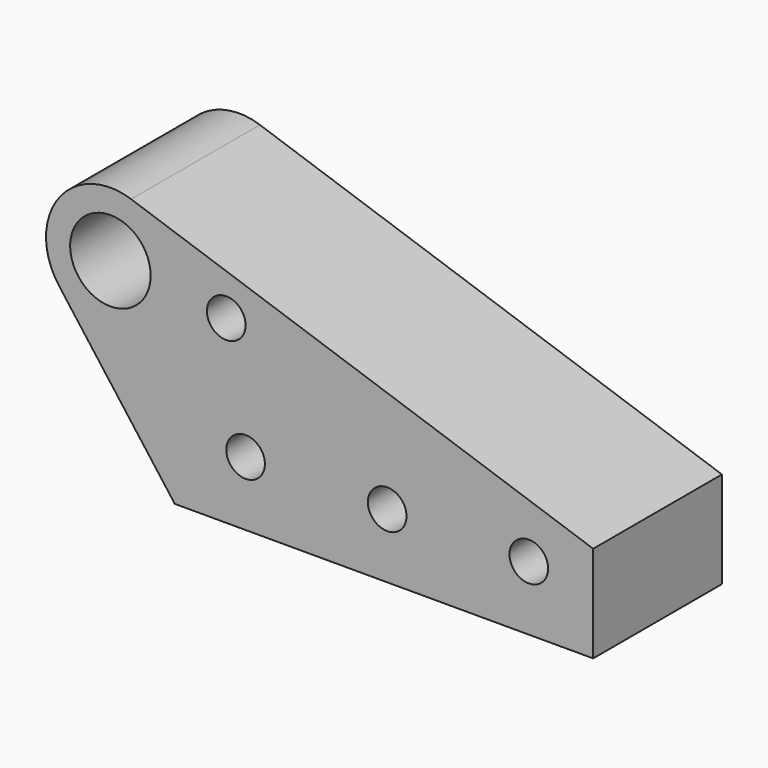
from build123d import *

# Parameters (mm, degrees)
F0_R     = 3
F0_R_2   = 6.25
F1_DEPTH = 25


with BuildPart() as f1:
    # F0 (on Front) → F1 (new body)
    with BuildSketch(Plane.XZ):
        with BuildLine():
            Line((-25.424625, 0), (39.575375, 0))
            Line((39.575375, 0), (39.575375, 15))
            Line((39.575375, 15), (-32.198247, 39.465225))
            ThreePointArc((-32.198247, 39.465225), (-43.517224, 35.874508), (-43.424625, 24))
            Line((-43.424625, 24), (-25.424625, 0))
        make_face()
        with Locations((-14.424625, 10)):
            Circle(F0_R, mode=Mode.SUBTRACT)
        with Locations((7.575375, 10)):
            Circle(F0_R, mode=Mode.SUBTRACT)
        with Locations((29.575375, 10)):
            Circle(F0_R, mode=Mode.SUBTRACT)
        with Locations((-17.424625, 28)):
            Circle(F0_R, mode=Mode.SUBTRACT)
        with Locations((-35.424625, 30)):
            Circle(F0_R_2, mode=Mode.SUBTRACT)
    extrude(amount=F1_DEPTH)


solid = f1.part
